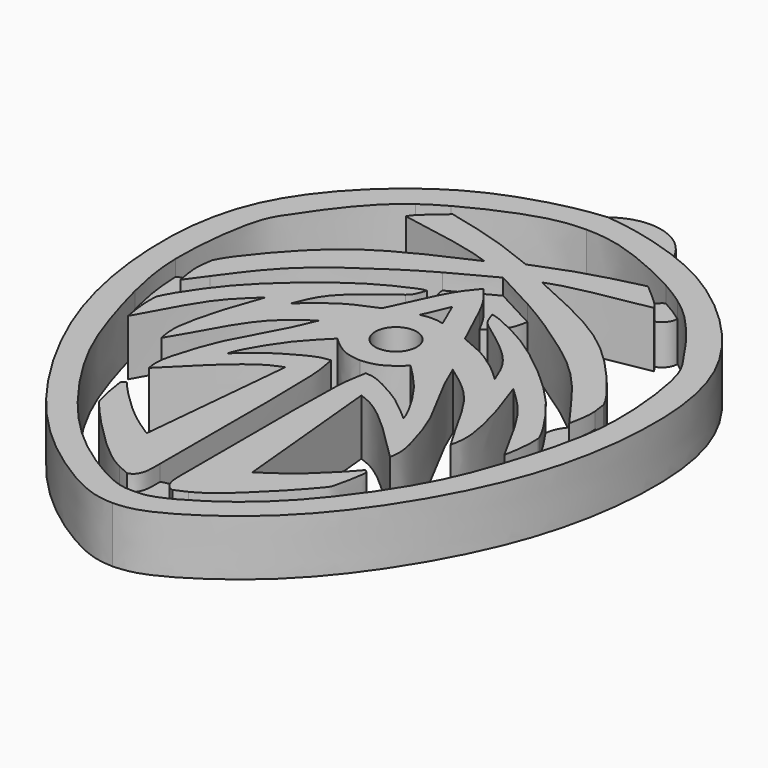
from build123d import *

# Parameters (mm, degrees)
F1_DEPTH = 7
F0_R     = 2.6071331136
F2_DEPTH = 5
F0_R_2   = 1.5875
F3_DEPTH = 3.5


with BuildPart() as f1:
    # F0 (on Top) → F1 (new body)
    with BuildSketch(Plane.XY):
        with BuildLine():
            add(Edge.make_bspline(
                [(2.0576944687, 28.3161494881), (3.8919356239, 29.0485476476), (7.6816753434, 30.5617611023), (12.048384548, 31.6117038317), (14.3015982808, 32.1534723043)],
                knots=[0, 0, 0, 0, 0.4840018817, 1, 1, 1, 1], degree=3))
            add(Edge.make_bspline(
                [(2.0576944687, 28.3161494881), (0.2234533135, 29.0485476476), (-3.5662864059, 30.5617611023), (-7.9329956105, 31.6117038317), (-10.1862093434, 32.1534723043)],
                knots=[0, 0, 0, 0, 0.4840018817, 1, 1, 1, 1], degree=3))
            add(Edge.make_bspline(
                [(-10.1862093434, 32.1534723043), (-10.2463302367, 32.1026240183), (-10.30645113, 32.0517757323), (-10.3664841392, 32.0009814863)],
                knots=[0, 0, 0, 0, 0.0354428577, 0.0354428577, 0.0354428577, 0.0354428577], degree=3))
            add(Edge.make_bspline(
                [(-10.3664841392, 32.0009814863), (-11.3930955179, 31.1323601791), (-12.3940063618, 30.2795421537), (-12.929717439, 29.71277588)],
                knots=[0.0354428577, 0.0354428577, 0.0354428577, 0.0354428577, 0.6415434263, 0.6415434263, 0.6415434263, 0.6415434263], degree=3))
            add(Edge.make_bspline(
                [(-12.929717439, 29.71277588), (-12.9737163758, 29.6662263227), (-13.2679470045, 29.3449272786), (-13.3868386368, 29.1314443397), (-13.4892193601, 28.9476085454)],
                knots=[0.6415434263, 0.6415434263, 0.6415434263, 0.6415434263, 0.6913235816, 1, 1, 1, 1], degree=3))
            add(Edge.make_bspline(
                [(-13.4892193601, 28.9476085454), (-9.9253631697, 28.3183933042), (-4.4228908483, 27.3469064474), (-2.2911447909, 26.5909620606), (-1.5400937991, 26.3246297836)],
                knots=[0, 0, 0, 0, 0.647682711, 1, 1, 1, 1], degree=3))
            add(Edge.make_bspline(
                [(-1.5400937991, 26.3246297836), (-3.8081073101, 25.3134431134), (-8.4943981729, 23.2240751135), (-15.3823894352, 19.1841664848), (-21.5590775978, 11.6570761557), (-22.2612556116, 10.2784880285), (-22.4753525108, 9.8581509665)],
                knots=[0, 0, 0, 0, 0.2716335792, 0.5612638347, 0.8662275795, 1, 1, 1, 1], degree=3))
            add(Edge.make_bspline(
                [(-22.4753525108, 9.8581509665), (-22.5648863264, 9.3156494494), (-22.654420142, 8.7731479324), (-22.6960974005, 8.2187168747)],
                knots=[0, 0, 0, 0, 0.3287020226, 0.3287020226, 0.3287020226, 0.3287020226], degree=3))
            add(Edge.make_bspline(
                [(-22.6960974005, 8.2187168747), (-22.7156455754, 7.9586682124), (-22.7549199703, 6.8149435023), (-22.5009699689, 5.5981246838), (-22.3053433001, 4.6607661061)],
                knots=[0.3287020226, 0.3287020226, 0.3287020226, 0.3287020226, 0.4828754226, 1, 1, 1, 1], degree=3))
            add(Edge.make_bspline(
                [(-22.3053433001, 4.6607661061), (-21.8133578597, 5.3534577579), (-21.2465597495, 6.1146099738), (-20.558425022, 7.0512205577)],
                knots=[0, 0, 0, 0, 0.1302768784, 0.1302768784, 0.1302768784, 0.1302768784], degree=3))
            add(Edge.make_bspline(
                [(-20.558425022, 7.0512205577), (-20.4623350143, 7.1820073275), (-19.2036501367, 8.8977555247), (-15.9547914921, 13.426704952), (-9.7280348574, 17.8720121723), (-6.1513351956, 20.2450585472), (-3.7940517316, 21.5953924336), (-3.2769529498, 21.8853776526)],
                knots=[0.1302768784, 0.1302768784, 0.1302768784, 0.1302768784, 0.1484685286, 0.3628434069, 0.5837852, 0.7774477843, 0.8297918388, 0.8297918388, 0.8297918388, 0.8297918388], degree=3))
            add(Edge.make_bspline(
                [(-3.2769529498, 21.8853776526), (-1.5954929705, 22.8283281244), (0.2501536916, 23.7994888551), (2.0576944687, 24.7347429395)],
                knots=[0.8297918388, 0.8297918388, 0.8297918388, 0.8297918388, 1, 1, 1, 1], degree=3))
            add(Edge.make_bspline(
                [(7.3923418873, 21.8853776526), (5.710881908, 22.8283281244), (3.8652352459, 23.7994888551), (2.0576944687, 24.7347429395)],
                knots=[0.8297918388, 0.8297918388, 0.8297918388, 0.8297918388, 1, 1, 1, 1], degree=3))
            add(Edge.make_bspline(
                [(24.6738139595, 7.0512205577), (24.5777239518, 7.1820073275), (23.3190390742, 8.8977555247), (20.0701804296, 13.426704952), (13.8434237949, 17.8720121723), (10.266724133, 20.2450585472), (7.9094406691, 21.5953924336), (7.3923418873, 21.8853776526)],
                knots=[0.1302768784, 0.1302768784, 0.1302768784, 0.1302768784, 0.1484685286, 0.3628434069, 0.5837852, 0.7774477843, 0.8297918388, 0.8297918388, 0.8297918388, 0.8297918388], degree=3))
            add(Edge.make_bspline(
                [(26.4207322376, 4.6607661061), (25.9287467972, 5.3534577579), (25.361948687, 6.1146099738), (24.6738139595, 7.0512205577)],
                knots=[0, 0, 0, 0, 0.1302768784, 0.1302768784, 0.1302768784, 0.1302768784], degree=3))
            add(Edge.make_bspline(
                [(26.8114863379, 8.2187168747), (26.8310345129, 7.9586682124), (26.8703089078, 6.8149435023), (26.6163589064, 5.5981246838), (26.4207322376, 4.6607661061)],
                knots=[0.3287020226, 0.3287020226, 0.3287020226, 0.3287020226, 0.4828754226, 1, 1, 1, 1], degree=3))
            add(Edge.make_bspline(
                [(26.5907414483, 9.8581509665), (26.6802752639, 9.3156494494), (26.7698090794, 8.7731479324), (26.8114863379, 8.2187168747)],
                knots=[0, 0, 0, 0, 0.3287020226, 0.3287020226, 0.3287020226, 0.3287020226], degree=3))
            add(Edge.make_bspline(
                [(5.6554827366, 26.3246297836), (7.9234962476, 25.3134431134), (12.6097871104, 23.2240751135), (19.4977783726, 19.1841664848), (25.6744665353, 11.6570761557), (26.3766445491, 10.2784880285), (26.5907414483, 9.8581509665)],
                knots=[0, 0, 0, 0, 0.2716335792, 0.5612638347, 0.8662275795, 1, 1, 1, 1], degree=3))
            add(Edge.make_bspline(
                [(17.6046082975, 28.9476085454), (14.0407521071, 28.3183933042), (8.5382797858, 27.3469064474), (6.4065337283, 26.5909620606), (5.6554827366, 26.3246297836)],
                knots=[0, 0, 0, 0, 0.647682711, 1, 1, 1, 1], degree=3))
            add(Edge.make_bspline(
                [(17.0451063765, 29.71277588), (17.0891053133, 29.6662263227), (17.3833359419, 29.3449272786), (17.5022275743, 29.1314443397), (17.6046082975, 28.9476085454)],
                knots=[0.6415434263, 0.6415434263, 0.6415434263, 0.6415434263, 0.6913235816, 1, 1, 1, 1], degree=3))
            add(Edge.make_bspline(
                [(14.4818730767, 32.0009814863), (15.5084844554, 31.1323601791), (16.5093952993, 30.2795421537), (17.0451063765, 29.71277588)],
                knots=[0.0354428577, 0.0354428577, 0.0354428577, 0.0354428577, 0.6415434263, 0.6415434263, 0.6415434263, 0.6415434263], degree=3))
            add(Edge.make_bspline(
                [(14.3015982808, 32.1534723043), (14.3617191742, 32.1026240183), (14.4218400675, 32.0517757323), (14.4818730767, 32.0009814863)],
                knots=[0, 0, 0, 0, 0.0354428577, 0.0354428577, 0.0354428577, 0.0354428577], degree=3))
        make_face()
    extrude(amount=F1_DEPTH)



with BuildPart() as f1b:
    # F0 (on Top) → F1, piece 2 (new body)
    with BuildSketch(Plane.XY):
        with BuildLine():
            add(Edge.make_bspline(
                [(-21.9534505159, 0.3777075326), (-21.9553285973, 0.3306665719), (-21.9572066787, 0.2836256113), (-21.959053586, 0.2365455975)],
                knots=[0, 0, 0, 0, 0.0334524547, 0.0334524547, 0.0334524547, 0.0334524547], degree=3))
            add(Edge.make_bspline(
                [(-21.959053586, 0.2365455975), (-21.9820360865, -0.3493075253), (-22.0241907783, -1.7236396661), (-21.716476944, -3.53626822), (-21.5412899852, -4.5682298951)],
                knots=[0.0334524547, 0.0334524547, 0.0334524547, 0.0334524547, 0.4497272915, 1, 1, 1, 1], degree=3))
            add(Edge.make_bspline(
                [(-21.5412899852, -4.5682298951), (-20.301800317, -2.2637725987), (-18.1892943706, 1.6423516323), (-16.1493962002, 4.4447615802), (-14.3422121465, 6.0944177875), (-13.4697956964, 6.937942002)],
                knots=[0, 0, 0, 0, 0.4173439585, 0.7054166704, 1, 1, 1, 1], degree=3))
            add(Edge.make_bspline(
                [(-13.4697956964, 6.937942002), (-13.8115362817, 5.9561817056), (-14.7414533312, 3.6151818653), (-16.6869903172, -3.2734897394), (-16.2518937618, -5.3460034082), (-16.0801503807, -6.148182787)],
                knots=[0, 0, 0, 0, 0.3044271067, 0.7304904484, 1, 1, 1, 1], degree=3))
            add(Edge.make_bspline(
                [(-16.0801503807, -6.148182787), (-15.1325637397, -4.6573766451), (-13.5604664301, -1.6308766005), (-10.8199412443, 2.946338495), (-8.0709663359, 5.1301032762), (-6.792936225, 6.0803655226), (-6.2913182192, 6.4227399416)],
                knots=[0, 0, 0, 0, 0.2900886434, 0.5814087861, 0.8172371287, 1, 1, 1, 1], degree=3))
            add(Edge.make_bspline(
                [(-6.2913182192, 6.4227399416), (-6.5804366814, 5.6949867672), (-7.2646746718, 3.9726603347), (-9.6311032724, -0.412512683), (-11.2005483438, -3.1954025053), (-12.6497998167, -7.4367127529), (-13.3290363542, -10.2843159034), (-13.1378173109, -11.4114561659), (-13.0576342344, -11.8840951473)],
                knots=[0, 0, 0, 0, 0.1509314251, 0.3571996552, 0.5291429248, 0.7258482662, 0.8850411076, 1, 1, 1, 1], degree=3))
            add(Edge.make_bspline(
                [(-13.0576342344, -11.8840951473), (-11.6796560225, -10.4771671992), (-9.0197342495, -7.7613635315), (-5.0455622872, -4.3117516064), (-3.3877230448, -3.6867847005), (-2.7192530688, -3.4347870387)],
                knots=[0, 0, 0, 0, 0.3907971412, 0.7543586796, 1, 1, 1, 1], degree=3))
            add(Edge.make_bspline(
                [(-2.7192530688, -3.4347870387), (-3.3368885828, -9.9045382813), (-3.9545240967, -16.3742895238), (-4.5721596107, -22.8440407664)],
                knots=[0, 0, 0, 0, 19.4974970937, 19.4974970937, 19.4974970937, 19.4974970937], degree=3))
            add(Edge.make_bspline(
                [(-4.5721596107, -22.8440407664), (-5.770187658, -22.0630343826), (-8.2224106498, -20.464405857), (-11.7452345752, -16.9101564212), (-12.5917736112, -15.9193150163), (-12.90462818, -15.5531307682)],
                knots=[0, 0, 0, 0, 0.3758575264, 0.7693363022, 1, 1, 1, 1], degree=3))
            add(Edge.make_bspline(
                [(-12.90462818, -15.5531307682), (-13.0412701976, -15.6364349658), (-13.3620936879, -15.8320259258), (-13.3079402662, -16.6843436368), (-12.6467143553, -20.0194661177), (-12.3833009319, -20.6092143322), (-10.5093213768, -22.7700981371), (-7.0134564366, -26.4515335737), (-4.0187279706, -29.0424813792), (-2.5831467735, -29.8303331803), (-2.2642003709, -29.9889711889)],
                knots=[0, 0, 0, 0, 0.0558372836, 0.1311010517, 0.2835442286, 0.3538641073, 0.4868091416, 0.6803152247, 0.8619488924, 0.9152000928, 0.9152000928, 0.9152000928, 0.9152000928], degree=3))
            add(Edge.make_bspline(
                [(-2.2642003709, -29.9889711889), (-1.7562939731, -30.2415943847), (-1.2649139595, -30.4435569399), (-0.7735339459, -30.645519495)],
                knots=[0.9152000928, 0.9152000928, 0.9152000928, 0.9152000928, 1, 1, 1, 1], degree=3))
            add(Edge.make_bspline(
                [(-0.7735339459, -30.645519495), (-0.5756599352, -30.5886423522), (-0.1231857098, -30.4585826185), (0.5016616638, -29.3030497801), (0.498743659, -28.4290365379), (0.4939989503, -27.0687586005)],
                knots=[0, 0, 0, 0, 0.0714690077, 0.1634266359, 0.3016227606, 0.3016227606, 0.3016227606, 0.3016227606], degree=3))
            add(Edge.make_bspline(
                [(0.4939989503, -27.0687586005), (0.4935326158, -26.9350634517), (0.4772270093, -22.2674993879), (0.6458331912, -3.3526723818), (0.1295626624, -1.0745216862), (-0.0459459558, 0.0465021199), (-0.1200069091, 0.5195506383)],
                knots=[0.3016227606, 0.3016227606, 0.3016227606, 0.3016227606, 0.3152053903, 0.7488235986, 0.8940088303, 1, 1, 1, 1], degree=3))
            add(Edge.make_bspline(
                [(-0.1200069091, 0.5195506383), (-0.5632855544, 0.4802178199), (-1.6391368548, 0.384755825), (-4.3427542137, -1.1288739113), (-6.3766634578, -2.3540929083), (-8.5039662435, -4.2856477945), (-8.8604763592, -4.5671103364), (-8.9697269723, -4.653363023)],
                knots=[0, 0, 0, 0, 0.1740278908, 0.4223711984, 0.6570649075, 0.8949093799, 1, 1, 1, 1], degree=3))
            add(Edge.make_bspline(
                [(-8.9697269723, -4.653363023), (-8.8971297333, -4.3926571136), (-8.6660828887, -3.5629385374), (-6.2085767893, 0.7109529739), (-3.9049814394, 3.141947615), (-2.9316294365, 4.103078004), (-2.5254548527, 4.5041525736)],
                knots=[0, 0, 0, 0, 0.1569249471, 0.4994268983, 0.7911135225, 1, 1, 1, 1], degree=3))
            add(Edge.make_bspline(
                [(-2.5254548527, 4.5041525736), (-2.3877532195, 4.3639530748), (-2.0020588746, 3.9712623521), (-0.1286611984, 2.4939870373), (1.3320810069, 2.3536654251), (2.0576944687, 2.2839616468)],
                knots=[0, 0, 0, 0, 0.2184086147, 0.6117499523, 1, 1, 1, 1], degree=3))
            add(Edge.make_bspline(
                [(6.6408437902, 4.5041525736), (6.503142157, 4.3639530748), (6.1174478121, 3.9712623521), (4.2440501358, 2.4939870373), (2.7833079306, 2.3536654251), (2.0576944687, 2.2839616468)],
                knots=[0, 0, 0, 0, 0.2184086147, 0.6117499523, 1, 1, 1, 1], degree=3))
            add(Edge.make_bspline(
                [(13.0851159098, -4.653363023), (13.0125186708, -4.3926571136), (12.7814718261, -3.5629385374), (10.3239657268, 0.7109529739), (8.0203703769, 3.141947615), (7.047018374, 4.103078004), (6.6408437902, 4.5041525736)],
                knots=[0, 0, 0, 0, 0.1569249471, 0.4994268983, 0.7911135225, 1, 1, 1, 1], degree=3))
            add(Edge.make_bspline(
                [(4.2353958466, 0.5195506383), (4.6786744918, 0.4802178199), (5.7545257922, 0.384755825), (8.4581431511, -1.1288739113), (10.4920523953, -2.3540929083), (12.619355181, -4.2856477945), (12.9758652967, -4.5671103364), (13.0851159098, -4.653363023)],
                knots=[0, 0, 0, 0, 0.1740278908, 0.4223711984, 0.6570649075, 0.8949093799, 1, 1, 1, 1], degree=3))
            add(Edge.make_bspline(
                [(3.6213899872, -27.0687586005), (3.6218563217, -26.9350634517), (3.6381619282, -22.2674993879), (3.4695557463, -3.3526723818), (3.9858262751, -1.0745216862), (4.1613348933, 0.0465021199), (4.2353958466, 0.5195506383)],
                knots=[0.3016227606, 0.3016227606, 0.3016227606, 0.3016227606, 0.3152053903, 0.7488235986, 0.8940088303, 1, 1, 1, 1], degree=3))
            add(Edge.make_bspline(
                [(4.8889228834, -30.645519495), (4.6910488727, -30.5886423522), (4.2385746473, -30.4585826185), (3.6137272737, -29.3030497801), (3.6166452784, -28.4290365379), (3.6213899872, -27.0687586005)],
                knots=[0, 0, 0, 0, 0.0714690077, 0.1634266359, 0.3016227606, 0.3016227606, 0.3016227606, 0.3016227606], degree=3))
            add(Edge.make_bspline(
                [(6.3795893084, -29.9889711889), (5.8716829106, -30.2415943847), (5.380302897, -30.4435569399), (4.8889228834, -30.645519495)],
                knots=[0.9152000928, 0.9152000928, 0.9152000928, 0.9152000928, 1, 1, 1, 1], degree=3))
            add(Edge.make_bspline(
                [(17.0200171174, -15.5531307682), (17.156659135, -15.6364349658), (17.4774826254, -15.8320259258), (17.4233292037, -16.6843436368), (16.7621032928, -20.0194661177), (16.4986898694, -20.6092143322), (14.6247103142, -22.7700981371), (11.1288453741, -26.4515335737), (8.134116908, -29.0424813792), (6.6985357109, -29.8303331803), (6.3795893084, -29.9889711889)],
                knots=[0, 0, 0, 0, 0.0558372836, 0.1311010517, 0.2835442286, 0.3538641073, 0.4868091416, 0.6803152247, 0.8619488924, 0.9152000928, 0.9152000928, 0.9152000928, 0.9152000928], degree=3))
            add(Edge.make_bspline(
                [(8.6875485482, -22.8440407664), (9.8855765955, -22.0630343826), (12.3377995873, -20.464405857), (15.8606235127, -16.9101564212), (16.7071625487, -15.9193150163), (17.0200171174, -15.5531307682)],
                knots=[0, 0, 0, 0, 0.3758575264, 0.7693363022, 1, 1, 1, 1], degree=3))
            add(Edge.make_bspline(
                [(6.8346420063, -3.4347870387), (7.4522775202, -9.9045382813), (8.0699130342, -16.3742895238), (8.6875485482, -22.8440407664)],
                knots=[0, 0, 0, 0, 19.4974970937, 19.4974970937, 19.4974970937, 19.4974970937], degree=3))
            add(Edge.make_bspline(
                [(17.1730231719, -11.8840951473), (15.7950449599, -10.4771671992), (13.135123187, -7.7613635315), (9.1609512246, -4.3117516064), (7.5031119823, -3.6867847005), (6.8346420063, -3.4347870387)],
                knots=[0, 0, 0, 0, 0.3907971412, 0.7543586796, 1, 1, 1, 1], degree=3))
            add(Edge.make_bspline(
                [(10.4067071566, 6.4227399416), (10.6958256188, 5.6949867672), (11.3800636093, 3.9726603347), (13.7464922099, -0.412512683), (15.3159372813, -3.1954025053), (16.7651887542, -7.4367127529), (17.4444252917, -10.2843159034), (17.2532062484, -11.4114561659), (17.1730231719, -11.8840951473)],
                knots=[0, 0, 0, 0, 0.1509314251, 0.3571996552, 0.5291429248, 0.7258482662, 0.8850411076, 1, 1, 1, 1], degree=3))
            add(Edge.make_bspline(
                [(20.1955393182, -6.148182787), (19.2479526771, -4.6573766451), (17.6758553676, -1.6308766005), (14.9353301818, 2.946338495), (12.1863552734, 5.1301032762), (10.9083251625, 6.0803655226), (10.4067071566, 6.4227399416)],
                knots=[0, 0, 0, 0, 0.2900886434, 0.5814087861, 0.8172371287, 1, 1, 1, 1], degree=3))
            add(Edge.make_bspline(
                [(17.5851846339, 6.937942002), (17.9269252192, 5.9561817056), (18.8568422686, 3.6151818653), (20.8023792546, -3.2734897394), (20.3672826993, -5.3460034082), (20.1955393182, -6.148182787)],
                knots=[0, 0, 0, 0, 0.3044271067, 0.7304904484, 1, 1, 1, 1], degree=3))
            add(Edge.make_bspline(
                [(25.6566789227, -4.5682298951), (24.4171892545, -2.2637725987), (22.3046833081, 1.6423516323), (20.2647851377, 4.4447615802), (18.4576010839, 6.0944177875), (17.5851846339, 6.937942002)],
                knots=[0, 0, 0, 0, 0.4173439585, 0.7054166704, 1, 1, 1, 1], degree=3))
            add(Edge.make_bspline(
                [(26.0744425235, 0.2365455975), (26.097425024, -0.3493075253), (26.1395797157, -1.7236396661), (25.8318658815, -3.53626822), (25.6566789227, -4.5682298951)],
                knots=[0.0334524547, 0.0334524547, 0.0334524547, 0.0334524547, 0.4497272915, 1, 1, 1, 1], degree=3))
            add(Edge.make_bspline(
                [(26.0688394533, 0.3777075326), (26.0707175347, 0.3306665719), (26.0725956161, 0.2836256113), (26.0744425235, 0.2365455975)],
                knots=[0, 0, 0, 0, 0.0334524547, 0.0334524547, 0.0334524547, 0.0334524547], degree=3))
            add(Edge.make_bspline(
                [(23.5013238254, 4.5976936487), (24.3222135338, 3.4647545084), (25.5016043833, 1.5932274348), (25.8929366026, 0.7546472304), (26.0688394533, 0.3777075326)],
                knots=[0.7716308165, 0.7716308165, 0.7716308165, 0.7716308165, 0.897348625, 1, 1, 1, 1], degree=3))
            add(Edge.make_bspline(
                [(6.1427538509, 17.934622243), (6.330615243, 17.9103052935), (6.9680620338, 17.827793601), (11.0043427309, 15.9325115601), (14.9649150775, 13.2186736685), (20.3584931565, 8.6752064095), (22.9140883967, 5.4081581909), (23.5013238254, 4.5976936487)],
                knots=[0, 0, 0, 0, 0.071079847, 0.2411864397, 0.431168476, 0.6816967481, 0.7716308165, 0.7716308165, 0.7716308165, 0.7716308165], degree=3))
            add(Edge.make_bspline(
                [(7.2478051057, 15.9188136458), (7.0709146906, 16.0695825633), (6.6364201039, 16.439915113), (6.3265000065, 17.3782814213), (6.1427538509, 17.934622243)],
                knots=[0, 0, 0, 0, 0.4071176502, 1, 1, 1, 1], degree=3))
            add(Edge.make_bspline(
                [(14.8738736512, 7.4184197001), (14.4668407597, 8.4728958956), (13.6261415002, 10.6508460688), (10.7586774649, 13.3466550537), (8.4440119993, 15.0424406181), (7.2478051057, 15.9188136458)],
                knots=[0, 0, 0, 0, 0.3120194135, 0.6444552647, 1, 1, 1, 1], degree=3))
            add(Edge.make_bspline(
                [(7.2478051057, 12.2757880017), (8.3710314206, 11.8198519808), (10.5675992655, 10.928228993), (13.2761935647, 8.9482822909), (14.3803046862, 7.8910379057), (14.8738736512, 7.4184197001)],
                knots=[0, 0, 0, 0, 0.3665560545, 0.7168326027, 1, 1, 1, 1], degree=3))
            add(Edge.make_bspline(
                [(4.7124773312, 17.7064030279), (5.0719657906, 16.9848065985), (6.0032812856, 14.9607220519), (6.7677953976, 13.3113603137), (7.2478051057, 12.2757880017)],
                knots=[0.4678742247, 0.4678742247, 0.4678742247, 0.4678742247, 0.6658982037, 1, 1, 1, 1], degree=3))
            add(Edge.make_bspline(
                [(2.0576944687, 21.6990821064), (2.6249572576, 21.0317247324), (3.5234304687, 19.9747142347), (4.399368619, 18.3349020044), (4.7124773312, 17.7064030279)],
                knots=[0, 0, 0, 0, 0.2953984985, 0.4678742247, 0.4678742247, 0.4678742247, 0.4678742247], degree=3))
            add(Edge.make_bspline(
                [(2.0576944687, 21.6990821063), (1.4904316799, 21.0317247324), (0.5919584688, 19.9747142347), (-0.2839796815, 18.3349020044), (-0.5970883937, 17.7064030279)],
                knots=[0, 0, 0, 0, 0.2953984985, 0.4678742247, 0.4678742247, 0.4678742247, 0.4678742247], degree=3))
            add(Edge.make_bspline(
                [(-0.5970883937, 17.7064030279), (-0.9565768531, 16.9848065985), (-1.8878923481, 14.9607220519), (-2.6524064601, 13.3113603137), (-3.1324161682, 12.2757880017)],
                knots=[0.4678742247, 0.4678742247, 0.4678742247, 0.4678742247, 0.6658982037, 1, 1, 1, 1], degree=3))
            add(Edge.make_bspline(
                [(-3.1324161682, 12.2757880017), (-4.2556424831, 11.8198519808), (-6.452210328, 10.928228993), (-9.1608046272, 8.9482822909), (-10.2649157487, 7.8910379057), (-10.7584847137, 7.4184197001)],
                knots=[0, 0, 0, 0, 0.3665560545, 0.7168326027, 1, 1, 1, 1], degree=3))
            add(Edge.make_bspline(
                [(-10.7584847137, 7.4184197001), (-10.3514518222, 8.4728958956), (-9.5107525628, 10.6508460688), (-6.6432885274, 13.3466550537), (-4.3286230619, 15.0424406181), (-3.1324161682, 15.9188136458)],
                knots=[0, 0, 0, 0, 0.3120194135, 0.6444552647, 1, 1, 1, 1], degree=3))
            add(Edge.make_bspline(
                [(-3.1324161682, 15.9188136458), (-2.9555257531, 16.0695825633), (-2.5210311664, 16.439915113), (-2.211111069, 17.3782814213), (-2.0273649134, 17.934622243)],
                knots=[0, 0, 0, 0, 0.4071176502, 1, 1, 1, 1], degree=3))
            add(Edge.make_bspline(
                [(-2.0273649134, 17.934622243), (-2.2152263056, 17.9103052935), (-2.8526730963, 17.827793601), (-6.8889537934, 15.9325115601), (-10.84952614, 13.2186736685), (-16.2431042191, 8.6752064095), (-18.7986994592, 5.4081581909), (-19.3859348879, 4.5976936487)],
                knots=[0, 0, 0, 0, 0.071079847, 0.2411864397, 0.431168476, 0.6816967481, 0.7716308165, 0.7716308165, 0.7716308165, 0.7716308165], degree=3))
            add(Edge.make_bspline(
                [(-19.3859348879, 4.5976936487), (-20.2068245963, 3.4647545084), (-21.3862154458, 1.5932274348), (-21.7775476651, 0.7546472304), (-21.9534505159, 0.3777075326)],
                knots=[0.7716308165, 0.7716308165, 0.7716308165, 0.7716308165, 0.897348625, 1, 1, 1, 1], degree=3))
        make_face()
        with Locations((2.0576944687, 7.9631172121)):
            Circle(F0_R, mode=Mode.SUBTRACT)
        with BuildLine():
            add(Edge.make_bspline(
                [(2.0576944687, 16.8042443693), (1.5816567968, 15.6936986993), (1.1056191248, 14.5831530293), (0.6295814528, 13.4726073593)],
                knots=[0, 0, 0, 0, 3.6248188855, 3.6248188855, 3.6248188855, 3.6248188855], degree=3))
            add(Edge.make_bspline(
                [(2.0576944687, 16.8042443693), (2.5337321407, 15.6936986993), (3.0097698127, 14.5831530293), (3.4858074847, 13.4726073593)],
                knots=[0, 0, 0, 0, 3.6248188855, 3.6248188855, 3.6248188855, 3.6248188855], degree=3))
            add(Edge.make_bspline(
                [(3.4858074847, 13.4726073593), (3.1931653549, 13.5363274628), (2.6581533981, 13.6528213433), (2.2449038038, 13.6469852378), (2.0576944687, 13.6443413794)],
                knots=[0, 0, 0, 0, 0.5469824105, 1, 1, 1, 1], degree=3))
            add(Edge.make_bspline(
                [(0.6295814528, 13.4726073593), (0.9222235826, 13.5363274628), (1.4572355394, 13.6528213433), (1.8704851337, 13.6469852378), (2.0576944687, 13.6443413794)],
                knots=[0, 0, 0, 0, 0.5469824105, 1, 1, 1, 1], degree=3))
        make_face(mode=Mode.SUBTRACT)
    extrude(amount=F1_DEPTH)


with BuildPart() as f1c:
    # F0 (on Top) → F1, piece 3 (new body)
    with BuildSketch(Plane.XY):
        with BuildLine():
            add(Edge.make_bspline(
                [(2.0576944687, 41.1396026611), (3.9708359547, 40.990078555), (6.2966491163, 40.5528325528), (8.6222435783, 39.9114093539)],
                knots=[0, 0, 0, 0, 0.0733116092, 0.0733116092, 0.0733116092, 0.0733116092], degree=3))
            add(Edge.make_bspline(
                [(2.0576944687, 41.1396026611), (0.1445529828, 40.990078555), (-2.1812601788, 40.5528325528), (-4.5068546408, 39.9114093539)],
                knots=[0, 0, 0, 0, 0.0733116092, 0.0733116092, 0.0733116092, 0.0733116092], degree=3))
            add(Edge.make_bspline(
                [(-4.5068546408, 39.9114093539), (-5.387428399, 39.6685379307), (-9.6858699858, 38.3400409495), (-16.9633224105, 34.6312829773), (-27.7365612672, 23.3730074663), (-29.5900610395, 8.3580113865), (-26.4946070522, -8.483879576), (-16.7876597848, -24.5357541563), (-8.1902637735, -32.2261301884), (-1.2014420544, -36.2864943817), (1.1500684855, -36.4269522027), (2.0576944687, -36.4811457694)],
                knots=[0.0733116092, 0.0733116092, 0.0733116092, 0.0733116092, 0.1010706534, 0.2088197111, 0.3353385421, 0.4609015192, 0.597353233, 0.7392583701, 0.8522207596, 0.9428695364, 1, 1, 1, 1], degree=3))
            add(Edge.make_bspline(
                [(8.6222435783, 39.9114093539), (9.5028173365, 39.6685379307), (13.8012589232, 38.3400409495), (21.078711348, 34.6312829773), (31.8519502047, 23.3730074663), (33.7054499769, 8.3580113865), (30.6099959897, -8.483879576), (20.9030487223, -24.5357541563), (12.3056527109, -32.2261301884), (5.3168309919, -36.2864943817), (2.965320452, -36.4269522027), (2.0576944687, -36.4811457694)],
                knots=[0.0733116092, 0.0733116092, 0.0733116092, 0.0733116092, 0.1010706534, 0.2088197111, 0.3353385421, 0.4609015192, 0.597353233, 0.7392583701, 0.8522207596, 0.9428695364, 1, 1, 1, 1], degree=3))
        make_face()
        with BuildLine():
            add(Edge.make_bspline(
                [(-14.3592651739, 31.5656789737), (-13.4246923685, 32.2407750426), (-12.4461706978, 32.8463711201), (-11.4088780541, 33.4214049503)],
                knots=[0.8095773555, 0.8095773555, 0.8095773555, 0.8095773555, 0.8437407922, 0.8437407922, 0.8437407922, 0.8437407922], degree=3))
            add(Edge.make_bspline(
                [(-11.4088780541, 33.4214049503), (-10.9999918804, 33.6480752), (-7.9566474794, 35.2637544891), (-2.2581058447, 37.6390866902), (0.8077577651, 37.7526892788), (2.0576944687, 37.7990044653)],
                knots=[0.8437407922, 0.8437407922, 0.8437407922, 0.8437407922, 0.8572075385, 0.9417842535, 1, 1, 1, 1], degree=3))
            add(Edge.make_bspline(
                [(15.5242669916, 33.4214049503), (15.1153808179, 33.6480752), (12.0720364169, 35.2637544891), (6.3734947822, 37.6390866902), (3.3076311724, 37.7526892788), (2.0576944687, 37.7990044653)],
                knots=[0.8437407922, 0.8437407922, 0.8437407922, 0.8437407922, 0.8572075385, 0.9417842535, 1, 1, 1, 1], degree=3))
            add(Edge.make_bspline(
                [(18.4746541114, 31.5656789737), (17.540081306, 32.2407750426), (16.5615596353, 32.8463711201), (15.5242669916, 33.4214049503)],
                knots=[0.8095773555, 0.8095773555, 0.8095773555, 0.8095773555, 0.8437407922, 0.8437407922, 0.8437407922, 0.8437407922], degree=3))
            add(Edge.make_bspline(
                [(29.5909034935, 7.8380693719), (29.6045262225, 8.4023909427), (29.6002928562, 12.005081037), (28.7089953401, 19.1843047631), (26.6743893678, 22.3092154921), (22.600046571, 28.2038879971), (19.4757012366, 30.8425646534), (18.4746541114, 31.5656789737)],
                knots=[0.5281549763, 0.5281549763, 0.5281549763, 0.5281549763, 0.5451886295, 0.6330862181, 0.6893084864, 0.7729839409, 0.8095773555, 0.8095773555, 0.8095773555, 0.8095773555], degree=3))
            add(Edge.make_bspline(
                [(28.4301400521, -0.006646417), (28.6174060316, 0.7443749267), (29.2189790983, 3.3710950919), (29.5421775502, 5.8195970928), (29.5909034935, 7.8380693719)],
                knots=[0.4432061793, 0.4432061793, 0.4432061793, 0.4432061793, 0.4672287978, 0.5281549763, 0.5281549763, 0.5281549763, 0.5281549763], degree=3))
            add(Edge.make_bspline(
                [(6.5376861586, -31.899431844), (7.6841300822, -31.2834591235), (11.4916606662, -28.883858717), (17.0071329124, -23.8548697362), (24.0785776301, -13.6420861902), (26.6640590235, -6.2642723724), (27.9944246536, -1.7540623922), (28.4301400521, -0.006646417)],
                knots=[0.0742122119, 0.0742122119, 0.0742122119, 0.0742122119, 0.1163937147, 0.2023769625, 0.3025194914, 0.3873122852, 0.4432061793, 0.4432061793, 0.4432061793, 0.4432061793], degree=3))
            add(Edge.make_bspline(
                [(2.0576944687, -33.23013708), (2.6780057837, -33.2272904017), (3.7818264859, -33.2222248446), (5.6541740203, -32.3741339767), (6.5376861586, -31.899431844)],
                knots=[0, 0, 0, 0, 0.0417048482, 0.0742122119, 0.0742122119, 0.0742122119, 0.0742122119], degree=3))
            add(Edge.make_bspline(
                [(2.0576944687, -33.23013708), (1.4373831538, -33.2272904017), (0.3335624516, -33.2222248446), (-1.5387850828, -32.3741339767), (-2.4222972211, -31.899431844)],
                knots=[0, 0, 0, 0, 0.0417048482, 0.0742122119, 0.0742122119, 0.0742122119, 0.0742122119], degree=3))
            add(Edge.make_bspline(
                [(-2.4222972211, -31.899431844), (-3.5687411447, -31.2834591235), (-7.3762717287, -28.883858717), (-12.8917439749, -23.8548697362), (-19.9631886927, -13.6420861902), (-22.548670086, -6.2642723724), (-23.8790357161, -1.7540623922), (-24.3147511147, -0.006646417)],
                knots=[0.0742122119, 0.0742122119, 0.0742122119, 0.0742122119, 0.1163937147, 0.2023769625, 0.3025194914, 0.3873122852, 0.4432061793, 0.4432061793, 0.4432061793, 0.4432061793], degree=3))
            add(Edge.make_bspline(
                [(-24.3147511147, -0.006646417), (-24.5020170941, 0.7443749267), (-25.1035901608, 3.3710950919), (-25.4267886127, 5.8195970928), (-25.475514556, 7.8380693719)],
                knots=[0.4432061793, 0.4432061793, 0.4432061793, 0.4432061793, 0.4672287978, 0.5281549763, 0.5281549763, 0.5281549763, 0.5281549763], degree=3))
            add(Edge.make_bspline(
                [(-25.475514556, 7.8380693719), (-25.489137285, 8.4023909427), (-25.4849039187, 12.005081037), (-24.5936064027, 19.1843047631), (-22.5590004303, 22.3092154921), (-18.4846576335, 28.2038879971), (-15.3603122992, 30.8425646534), (-14.3592651739, 31.5656789737)],
                knots=[0.5281549763, 0.5281549763, 0.5281549763, 0.5281549763, 0.5451886295, 0.6330862181, 0.6893084864, 0.7729839409, 0.8095773555, 0.8095773555, 0.8095773555, 0.8095773555], degree=3))
        make_face(mode=Mode.SUBTRACT)
    extrude(amount=F1_DEPTH)


with BuildPart() as f1_1:
    add(f1.part)

    add(f1b.part)  # F2 merges F1b

    add(f1c.part)  # F2 merges F1c
    # F0 (on Top) → F2 (join)
    with BuildSketch(Plane.XY):
        with BuildLine():
            add(Edge.make_bspline(
                [(-10.3664841392, 32.0009814863), (-11.3930955179, 31.1323601791), (-12.3940063618, 30.2795421537), (-12.929717439, 29.71277588)],
                knots=[0.0354428577, 0.0354428577, 0.0354428577, 0.0354428577, 0.6415434263, 0.6415434263, 0.6415434263, 0.6415434263], degree=3))
            ThreePointArc((-10.3664841392, 32.0009814863), (-10.7240617241, 32.8312671558), (-11.4088780541, 33.4214049503))
            add(Edge.make_bspline(
                [(-14.3592651739, 31.5656789737), (-13.4246923685, 32.2407750426), (-12.4461706978, 32.8463711201), (-11.4088780541, 33.4214049503)],
                knots=[0.8095773555, 0.8095773555, 0.8095773555, 0.8095773555, 0.8437407922, 0.8437407922, 0.8437407922, 0.8437407922], degree=3))
            ThreePointArc((-14.3592651739, 31.5656789737), (-13.9413487859, 30.4101965947), (-12.929717439, 29.71277588))
        make_face()
        with BuildLine():
            add(Edge.make_bspline(
                [(-3.2769529498, 21.8853776526), (-1.5954929705, 22.8283281244), (0.2501536916, 23.7994888551), (2.0576944687, 24.7347429395)],
                knots=[0.8297918388, 0.8297918388, 0.8297918388, 0.8297918388, 1, 1, 1, 1], degree=3))
            ThreePointArc((-3.2769529499, 21.8853776526), (-2.4504876796, 19.4666176936), (-0.5970883937, 17.7064030279))
            add(Edge.make_bspline(
                [(2.0576944687, 21.6990821063), (1.4904316799, 21.0317247324), (0.5919584688, 19.9747142347), (-0.2839796815, 18.3349020044), (-0.5970883937, 17.7064030279)],
                knots=[0, 0, 0, 0, 0.2953984985, 0.4678742247, 0.4678742247, 0.4678742247, 0.4678742247], degree=3))
            add(Edge.make_bspline(
                [(2.0576944687, 21.6990821064), (2.6249572576, 21.0317247324), (3.5234304687, 19.9747142347), (4.399368619, 18.3349020044), (4.7124773312, 17.7064030279)],
                knots=[0, 0, 0, 0, 0.2953984985, 0.4678742247, 0.4678742247, 0.4678742247, 0.4678742247], degree=3))
            ThreePointArc((4.7124773312, 17.7064030279), (6.565876617, 19.4666176936), (7.3923418873, 21.8853776526))
            add(Edge.make_bspline(
                [(7.3923418873, 21.8853776526), (5.710881908, 22.8283281244), (3.8652352459, 23.7994888551), (2.0576944687, 24.7347429395)],
                knots=[0.8297918388, 0.8297918388, 0.8297918388, 0.8297918388, 1, 1, 1, 1], degree=3))
        make_face()
        with BuildLine():
            ThreePointArc((15.5242669916, 33.4214049503), (14.8394506616, 32.8312671558), (14.4818730767, 32.0009814863))
            add(Edge.make_bspline(
                [(14.4818730767, 32.0009814863), (15.5084844554, 31.1323601791), (16.5093952993, 30.2795421537), (17.0451063765, 29.71277588)],
                knots=[0.0354428577, 0.0354428577, 0.0354428577, 0.0354428577, 0.6415434263, 0.6415434263, 0.6415434263, 0.6415434263], degree=3))
            ThreePointArc((17.0451063765, 29.71277588), (18.0567377234, 30.4101965947), (18.4746541114, 31.5656789737))
            add(Edge.make_bspline(
                [(18.4746541114, 31.5656789737), (17.540081306, 32.2407750426), (16.5615596353, 32.8463711201), (15.5242669916, 33.4214049503)],
                knots=[0.8095773555, 0.8095773555, 0.8095773555, 0.8095773555, 0.8437407922, 0.8437407922, 0.8437407922, 0.8437407922], degree=3))
        make_face()
        with BuildLine():
            add(Edge.make_bspline(
                [(28.4301400521, -0.006646417), (28.6174060316, 0.7443749267), (29.2189790983, 3.3710950919), (29.5421775502, 5.8195970928), (29.5909034935, 7.8380693719)],
                knots=[0.4432061793, 0.4432061793, 0.4432061793, 0.4432061793, 0.4672287978, 0.5281549763, 0.5281549763, 0.5281549763, 0.5281549763], degree=3))
            ThreePointArc((29.5909034935, 7.8380693719), (28.233983538, 8.2678095349), (26.8114863379, 8.2187168747))
            add(Edge.make_bspline(
                [(26.8114863379, 8.2187168747), (26.8310345129, 7.9586682124), (26.8703089078, 6.8149435023), (26.6163589064, 5.5981246838), (26.4207322376, 4.6607661061)],
                knots=[0.3287020226, 0.3287020226, 0.3287020226, 0.3287020226, 0.4828754226, 1, 1, 1, 1], degree=3))
            add(Edge.make_bspline(
                [(26.4207322376, 4.6607661061), (25.9287467972, 5.3534577579), (25.361948687, 6.1146099738), (24.6738139595, 7.0512205577)],
                knots=[0, 0, 0, 0, 0.1302768784, 0.1302768784, 0.1302768784, 0.1302768784], degree=3))
            ThreePointArc((24.6738139595, 7.0512205577), (23.8830859784, 5.9221752894), (23.5013238254, 4.5976936487))
            add(Edge.make_bspline(
                [(23.5013238254, 4.5976936487), (24.3222135338, 3.4647545084), (25.5016043833, 1.5932274348), (25.8929366026, 0.7546472304), (26.0688394533, 0.3777075326)],
                knots=[0.7716308165, 0.7716308165, 0.7716308165, 0.7716308165, 0.897348625, 1, 1, 1, 1], degree=3))
            add(Edge.make_bspline(
                [(26.0688394533, 0.3777075326), (26.0707175347, 0.3306665719), (26.0725956161, 0.2836256113), (26.0744425235, 0.2365455975)],
                knots=[0, 0, 0, 0, 0.0334524547, 0.0334524547, 0.0334524547, 0.0334524547], degree=3))
            ThreePointArc((26.0744425235, 0.2365455975), (27.2347599447, -0.0548690684), (28.4301400521, -0.006646417))
        make_face()
        with BuildLine():
            ThreePointArc((-22.6960974005, 8.2187168747), (-24.1185946005, 8.2678095349), (-25.475514556, 7.8380693719))
            add(Edge.make_bspline(
                [(-24.3147511147, -0.006646417), (-24.5020170941, 0.7443749267), (-25.1035901608, 3.3710950919), (-25.4267886127, 5.8195970928), (-25.475514556, 7.8380693719)],
                knots=[0.4432061793, 0.4432061793, 0.4432061793, 0.4432061793, 0.4672287978, 0.5281549763, 0.5281549763, 0.5281549763, 0.5281549763], degree=3))
            ThreePointArc((-24.3147511147, -0.006646417), (-23.1193710072, -0.0548690684), (-21.959053586, 0.2365455975))
            add(Edge.make_bspline(
                [(-21.9534505159, 0.3777075326), (-21.9553285973, 0.3306665719), (-21.9572066787, 0.2836256113), (-21.959053586, 0.2365455975)],
                knots=[0, 0, 0, 0, 0.0334524547, 0.0334524547, 0.0334524547, 0.0334524547], degree=3))
            add(Edge.make_bspline(
                [(-19.3859348879, 4.5976936487), (-20.2068245963, 3.4647545084), (-21.3862154458, 1.5932274348), (-21.7775476651, 0.7546472304), (-21.9534505159, 0.3777075326)],
                knots=[0.7716308165, 0.7716308165, 0.7716308165, 0.7716308165, 0.897348625, 1, 1, 1, 1], degree=3))
            ThreePointArc((-19.3859348879, 4.5976936487), (-19.7676970409, 5.9221752894), (-20.558425022, 7.0512205577))
            add(Edge.make_bspline(
                [(-22.3053433001, 4.6607661061), (-21.8133578597, 5.3534577579), (-21.2465597495, 6.1146099738), (-20.558425022, 7.0512205577)],
                knots=[0, 0, 0, 0, 0.1302768784, 0.1302768784, 0.1302768784, 0.1302768784], degree=3))
            add(Edge.make_bspline(
                [(-22.6960974005, 8.2187168747), (-22.7156455754, 7.9586682124), (-22.7549199703, 6.8149435023), (-22.5009699689, 5.5981246838), (-22.3053433001, 4.6607661061)],
                knots=[0.3287020226, 0.3287020226, 0.3287020226, 0.3287020226, 0.4828754226, 1, 1, 1, 1], degree=3))
        make_face()
        with BuildLine():
            ThreePointArc((-2.2642003709, -29.9889711889), (-2.4457227447, -30.935721463), (-2.4222972211, -31.899431844))
            add(Edge.make_bspline(
                [(2.0576944687, -33.23013708), (1.4373831538, -33.2272904017), (0.3335624516, -33.2222248446), (-1.5387850828, -32.3741339767), (-2.4222972211, -31.899431844)],
                knots=[0, 0, 0, 0, 0.0417048482, 0.0742122119, 0.0742122119, 0.0742122119, 0.0742122119], degree=3))
            add(Edge.make_bspline(
                [(2.0576944687, -33.23013708), (2.6780057837, -33.2272904017), (3.7818264859, -33.2222248446), (5.6541740203, -32.3741339767), (6.5376861586, -31.899431844)],
                knots=[0, 0, 0, 0, 0.0417048482, 0.0742122119, 0.0742122119, 0.0742122119, 0.0742122119], degree=3))
            ThreePointArc((6.5376861586, -31.899431844), (6.5611116822, -30.935721463), (6.3795893084, -29.9889711889))
            add(Edge.make_bspline(
                [(6.3795893084, -29.9889711889), (5.8716829106, -30.2415943847), (5.380302897, -30.4435569399), (4.8889228834, -30.645519495)],
                knots=[0.9152000928, 0.9152000928, 0.9152000928, 0.9152000928, 1, 1, 1, 1], degree=3))
            add(Edge.make_bspline(
                [(4.8889228834, -30.645519495), (4.6910488727, -30.5886423522), (4.2385746473, -30.4585826185), (3.6137272737, -29.3030497801), (3.6166452784, -28.4290365379), (3.6213899872, -27.0687586005)],
                knots=[0, 0, 0, 0, 0.0714690077, 0.1634266359, 0.3016227606, 0.3016227606, 0.3016227606, 0.3016227606], degree=3))
            ThreePointArc((3.6213899872, -27.0687586005), (2.0576944687, -26.7895830904), (0.4939989503, -27.0687586005))
            add(Edge.make_bspline(
                [(-0.7735339459, -30.645519495), (-0.5756599352, -30.5886423522), (-0.1231857098, -30.4585826185), (0.5016616638, -29.3030497801), (0.498743659, -28.4290365379), (0.4939989503, -27.0687586005)],
                knots=[0, 0, 0, 0, 0.0714690077, 0.1634266359, 0.3016227606, 0.3016227606, 0.3016227606, 0.3016227606], degree=3))
            add(Edge.make_bspline(
                [(-2.2642003709, -29.9889711889), (-1.7562939731, -30.2415943847), (-1.2649139595, -30.4435569399), (-0.7735339459, -30.645519495)],
                knots=[0.9152000928, 0.9152000928, 0.9152000928, 0.9152000928, 1, 1, 1, 1], degree=3))
        make_face()
    extrude(amount=F2_DEPTH)

    # F0 (on Top) → F3 (join)
    with BuildSketch(Plane.XY):
        with BuildLine():
            add(Edge.make_bspline(
                [(2.0576944687, 41.1396026611), (0.1445529828, 40.990078555), (-2.1812601788, 40.5528325528), (-4.5068546408, 39.9114093539)],
                knots=[0, 0, 0, 0, 0.0733116092, 0.0733116092, 0.0733116092, 0.0733116092], degree=3))
            add(Edge.make_bspline(
                [(2.0576944687, 41.1396026611), (3.9708359547, 40.990078555), (6.2966491163, 40.5528325528), (8.6222435783, 39.9114093539)],
                knots=[0, 0, 0, 0, 0.0733116092, 0.0733116092, 0.0733116092, 0.0733116092], degree=3))
            ThreePointArc((8.6222435783, 39.9114093539), (2.0576944687, 47.8180578576), (-4.5068546408, 39.9114093539))
        make_face()
        with Locations((2.0576944687, 43.9018830657)):
            Circle(F0_R_2, mode=Mode.SUBTRACT)
    extrude(amount=F3_DEPTH)


solid = f1_1.part
